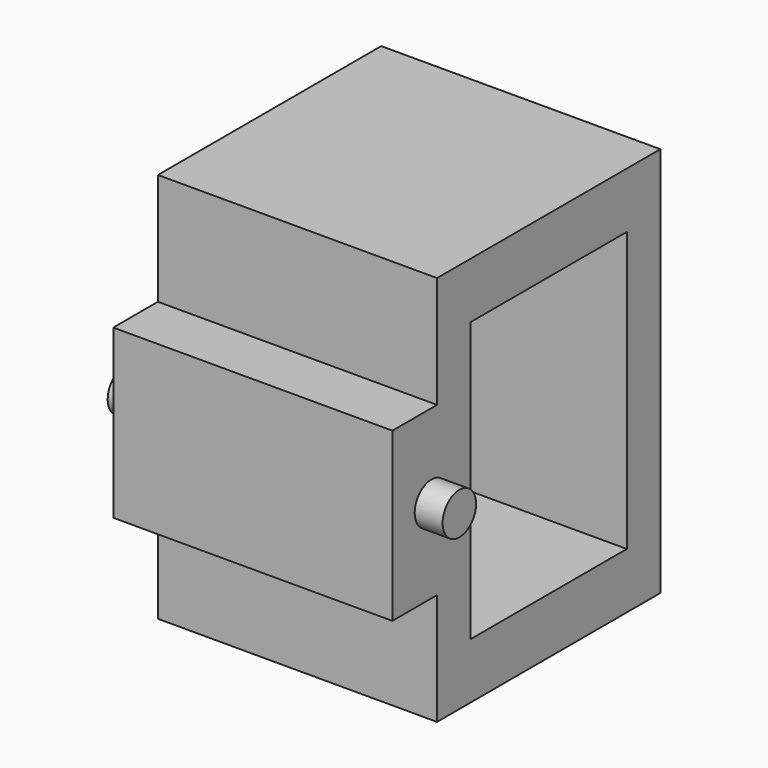
from build123d import *

# Parameters (mm, degrees)
F0_W      = 25.4
F0_H      = 7.62
F0_H_2    = 17.78
F1_DEPTH  = 5.08
F2_W      = 25.4
F2_H      = 3.81
F3_DEPTH  = 25.4
F4_W      = 25.4
F4_H      = 25.4
F5_DEPTH  = 5.08
F6_W      = 25.4
F6_H      = 15.24
F7_DEPTH  = 5.08
F9_DEPTH  = 2.54
F11_DEPTH = 2.54


with BuildPart() as f1:
    # F0 (on Top) → F1 (new body)
    with BuildSketch(Plane.XY):
        with Locations((-12.7, 3.81)):
            Rectangle(F0_W, F0_H)
        with Locations((-12.7, -8.89)):
            Rectangle(F0_W, F0_H_2)
    extrude(amount=F1_DEPTH)

    # F2 (on face) → F3 (join)
    with BuildSketch(Plane.XY.offset(5.08)):
        with Locations((-12.7, -15.875)):
            Rectangle(F2_W, F2_H)
        with Locations((-12.7, 5.715)):
            Rectangle(F2_W, F2_H)
    extrude(amount=F3_DEPTH)

    # F4 (on face) → F5 (join)
    with BuildSketch(Plane.XY.offset(30.48)):
        with Locations((-12.7, -5.08)):
            Rectangle(F4_W, F4_H)
    extrude(amount=F5_DEPTH)

    # F6 (on face) → F7 (join)
    with BuildSketch(Plane.XZ.offset(17.78)):
        with Locations((-12.7, 17.78)):
            Rectangle(F6_W, F6_H)
    extrude(amount=F7_DEPTH)

    # F8 (on face) → F9 (join)
    with BuildSketch(Plane.YZ):
        with BuildLine():
            Line((-20.32, 17.78), (-18.415, 17.78))
            Line((-18.415, 17.78), (-16.51, 17.78))
            ThreePointArc((-16.51, 17.78), (-18.415, 19.685), (-20.32, 17.78))
        make_face()
        with BuildLine():
            Line((-16.51, 17.78), (-18.415, 17.78))
            Line((-18.415, 17.78), (-20.32, 17.78))
            ThreePointArc((-20.32, 17.78), (-18.415, 15.875), (-16.51, 17.78))
        make_face()
    extrude(amount=F9_DEPTH)

    # F10 (on face) → F11 (join)
    with BuildSketch(Plane(origin=(-25.4, 0, 0), x_dir=(0, -1, 0), z_dir=(-1, 0, 0))):
        with BuildLine():
            ThreePointArc((16.51, 17.78), (18.415, 15.875), (20.32, 17.78))
            Line((20.32, 17.78), (18.415, 17.78))
            Line((18.415, 17.78), (16.51, 17.78))
        make_face()
        with BuildLine():
            Line((18.415, 17.78), (20.32, 17.78))
            ThreePointArc((20.32, 17.78), (18.415, 19.685), (16.51, 17.78))
            Line((16.51, 17.78), (18.415, 17.78))
        make_face()
    extrude(amount=F11_DEPTH)


solid = f1.part
